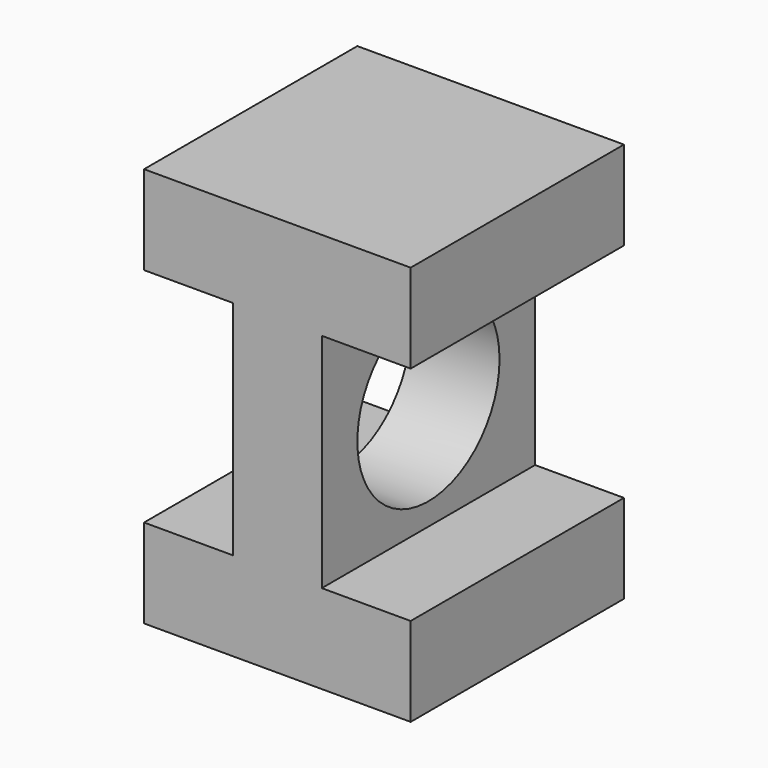
from build123d import *

# Parameters (mm, degrees)
F1_DEPTH = 76.2
F2_R     = 25.4
F3_DEPTH = 25.4


with BuildPart() as f1:
    # F0 (on Front) → F1 (new body)
    with BuildSketch(Plane.XZ):
        Polygon((-40.079643, -11.612137), (-40.079643, -37.012137), (36.120357, -37.012137), (36.120357, -11.612137), (10.720357, -11.612137), (10.720357, 51.887863), (36.120357, 51.887863), (36.120357, 77.287863), (-40.079643, 77.287863), (-40.079643, 51.887863), (-14.679643, 51.887863), (-14.679643, -11.612137), align=None)
    extrude(amount=F1_DEPTH)

    # F2 (on face) → F3 (cut)
    with BuildSketch(Plane.YZ.offset(10.720357)):
        with Locations((-38.1, 20.137863)):
            Circle(F2_R)
    extrude(amount=-F3_DEPTH, mode=Mode.SUBTRACT)


solid = f1.part
